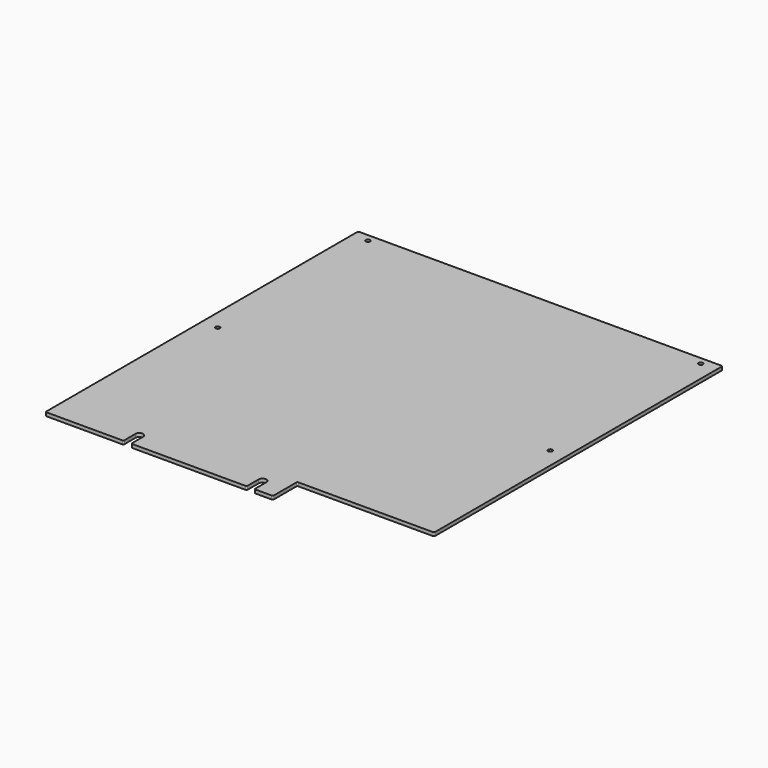
from build123d import *

# Parameters (mm, degrees)
SKETCH_R  = 1.8288
PAD_DEPTH = 3


with BuildPart() as part:
    # Sketch → Pad (new body)
    with BuildSketch(Plane.XY):
        with BuildLine():
            ThreePointArc((-154.4, 333.375), (-155.107107, 333.082107), (-155.4, 332.375))
            Line((-155.4, 1), (-155.4, 332.375))
            ThreePointArc((-155.4, 1), (-155.107107, 0.292893), (-154.4, 0))
            Line((-154.4, 0), (-89.852, 0))
            ThreePointArc((-89.852, 0), (-89.144893, 0.292893), (-88.852, 1))
            Line((-88.852, 12.7), (-88.852, 1))
            ThreePointArc((-82.248, 12.7), (-85.55, 16.002), (-88.852, 12.7))
            Line((-82.248, 12.7), (-82.248, 1))
            ThreePointArc((-82.248, 1), (-81.955107, 0.292893), (-81.248, 0))
            Line((-81.248, 0), (15.248, 0))
            ThreePointArc((15.248, 0), (15.955107, 0.292893), (16.248, 1))
            Line((16.248, 12.7), (16.248, 1))
            ThreePointArc((22.852, 12.7), (19.55, 16.002), (16.248, 12.7))
            Line((22.852, 12.7), (22.852, 1))
            ThreePointArc((22.852, 1), (23.144893, 0.292893), (23.852, 0))
            Line((23.852, 0), (37.6, 0))
            ThreePointArc((37.6, 0), (38.307107, 0.292893), (38.6, 1))
            Line((38.6, 1), (38.6, 24.9))
            ThreePointArc((39.6, 25.9), (38.892893, 25.607107), (38.6, 24.9))
            Line((39.6, 25.9), (154.4, 25.9))
            ThreePointArc((154.4, 25.9), (155.107107, 26.192893), (155.4, 26.9))
            Line((155.4, 332.375), (155.4, 26.9))
            ThreePointArc((155.4, 332.375), (155.107107, 333.082107), (154.4, 333.375))
            Line((-154.4, 333.375), (154.4, 333.375))
        make_face()
        with Locations((-141.9352, 327.025)):
            Circle(SKETCH_R, mode=Mode.SUBTRACT)
        with Locations((-141.9352, 166.6875)):
            Circle(SKETCH_R, mode=Mode.SUBTRACT)
        with Locations((141.9352, 327.025)):
            Circle(SKETCH_R, mode=Mode.SUBTRACT)
        with Locations((141.9352, 166.6875)):
            Circle(SKETCH_R, mode=Mode.SUBTRACT)
    extrude(amount=PAD_DEPTH)


solid = part.part
